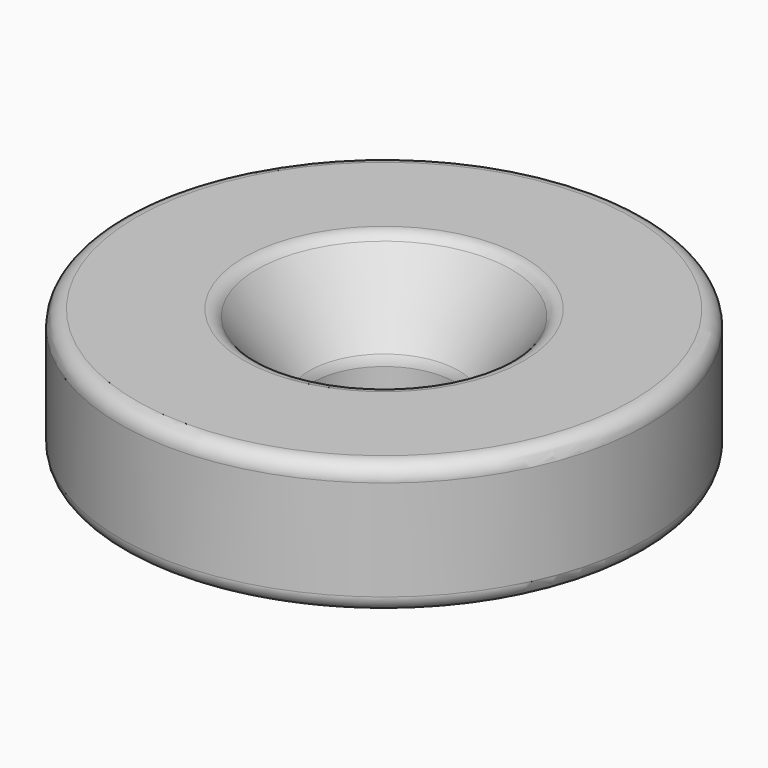
from build123d import *

# Parameters (mm, degrees)
F2_R = 0.381


with BuildPart() as f1:
    # F0 (on Front) → F1 (revolve)
    with BuildSketch(Plane.XZ):
        Polygon((1.7145, 1.190625), (1.7145, 0), (6.35, 0), (6.35, 3.175), (3.175, 3.175), align=None)
    revolve(axis=Axis((0, 0, 3.017198), (0, 0, 1)))

    # F2
    f2_edges = [f1.edges().sort_by_distance(p)[0] for p in [
        (-3.175, 0, 3.175),
        (-1.7145, 0, 1.190625),
        (-6.35, 0, 3.175),
        (-6.35, 0, 0),
    ]]
    fillet(f2_edges, radius=F2_R)


solid = f1.part
